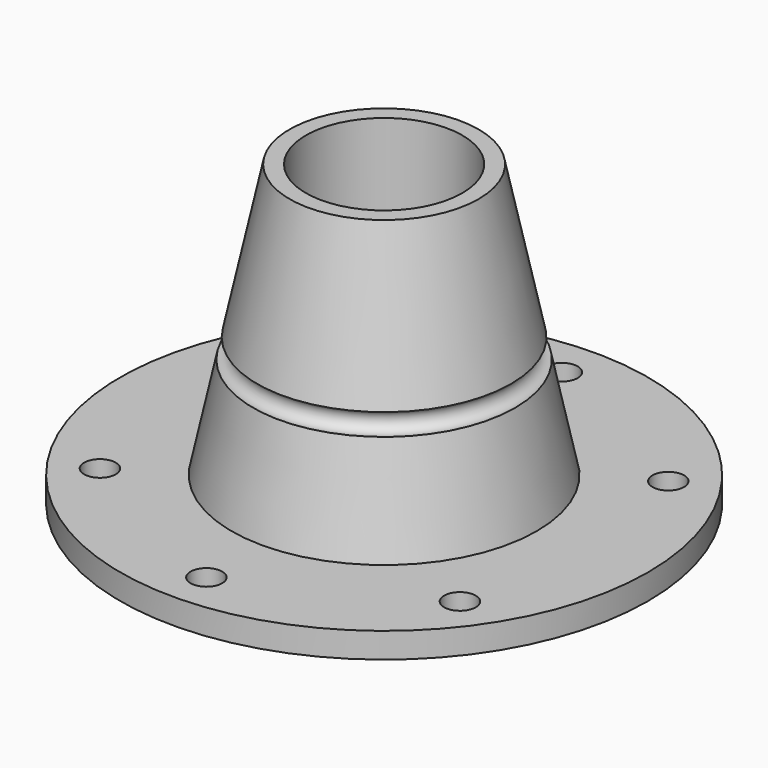
from build123d import *

# Parameters (mm, degrees)
F3_D = 6.35


with BuildPart() as f1:
    # F0 (on Front) → F1 (revolve)
    with BuildSketch(Plane.XZ):
        with BuildLine():
            Line((15.701818, 59.965332), (15.701818, 5.08))
            Line((15.701818, 5.08), (30.631373, 5.08))
            Line((30.631373, 5.08), (26.299382, 25.46033))
            ThreePointArc((26.299382, 25.46033), (23.907412, 27.013691), (25.460773, 29.405662))
            Line((25.460773, 29.405662), (18.965088, 59.965332))
            Line((18.965088, 59.965332), (15.701818, 59.965332))
        make_face()
        Polygon((30.631373, 5.08), (15.701818, 5.08), (15.701818, 0), (52.983373, 0), (52.983373, 5.08), align=None)
    revolve(axis=Axis((0, 0, 30.249089), (0, 0, 1)))

    # F3 (through all)
    with Locations(Plane(origin=(0, 0, 0), x_dir=(1, 0, 0), z_dir=(0, 0, -1))):
        with Locations((-36.129998, 26.139543), (0, 44.59431), (36.129998, 26.139543), (36.129998, -26.139543), (0, -44.59431), (-36.129998, -26.139543)):
            Hole(F3_D / 2)


solid = f1.part
